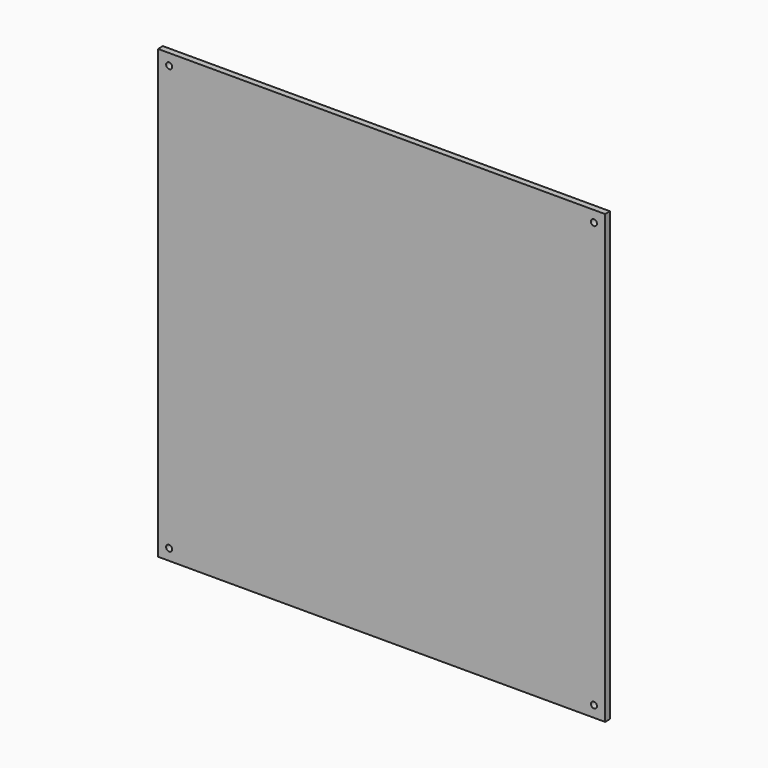
from build123d import *

# Parameters (mm, degrees)
F0_W     = 220
F0_H     = 220
F1_DEPTH = 3
F2_D     = 3
F2_DEPTH = 10


with BuildPart() as f1:
    # F0 (on Front) → F1 (new body)
    with BuildSketch(Plane.XZ):
        Rectangle(F0_W, F0_H)
    extrude(amount=F1_DEPTH)

    # F2
    with Locations(Plane(origin=(0, 0, 0), x_dir=(1, 0, 0), z_dir=(0, 1, 0))):
        with Locations((-104.5, 104.5), (104.5, 104.5), (104.5, -104.5), (-104.5, -104.5)):
            Hole(F2_D / 2, depth=F2_DEPTH)


solid = f1.part
